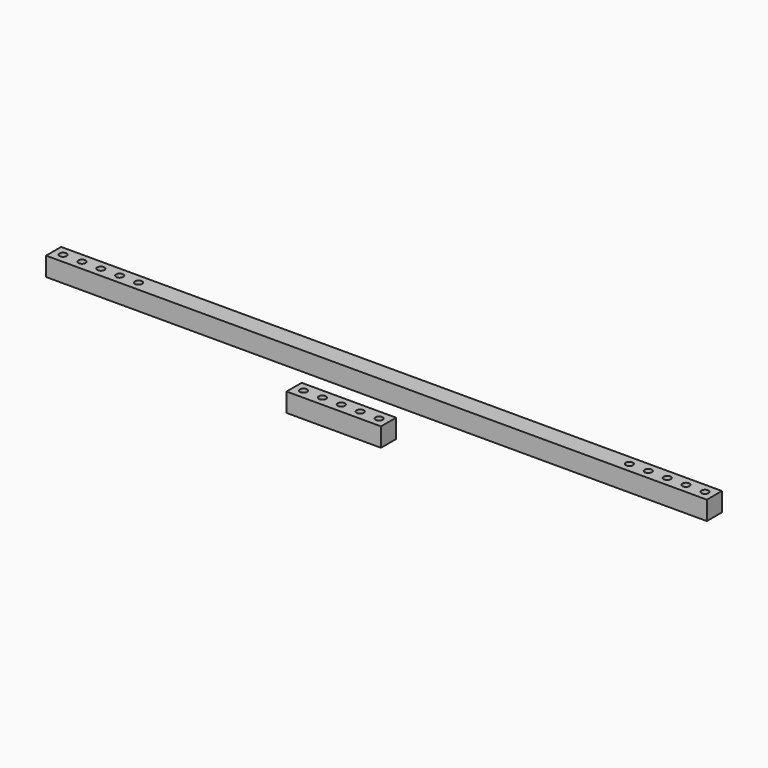
from build123d import *

# Parameters (mm, degrees)
F0_W     = 25
F0_H     = 5
F0_R     = 0.95
F0_W_2   = 175
F1_DEPTH = 5


with BuildPart() as f1:
    # F0 (on Top) → F1 (new body)
    with BuildSketch(Plane.XY):
        with Locations((1.717769, -8.260114)):
            Rectangle(F0_W, F0_H)
        with Locations((-8.282231, -8.260114)):
            Circle(F0_R, mode=Mode.SUBTRACT)
        with Locations((-3.282231, -8.260114)):
            Circle(F0_R, mode=Mode.SUBTRACT)
        with Locations((1.717769, -8.260114)):
            Circle(F0_R, mode=Mode.SUBTRACT)
        with Locations((6.717769, -8.260114)):
            Circle(F0_R, mode=Mode.SUBTRACT)
        with Locations((11.717769, -8.260114)):
            Circle(F0_R, mode=Mode.SUBTRACT)
        with Locations((-0.145234, 8.2023)):
            Rectangle(F0_W_2, F0_H)
        with Locations((-85.145234, 8.2023)):
            Circle(F0_R, mode=Mode.SUBTRACT)
        with Locations((-80.145234, 8.2023)):
            Circle(F0_R, mode=Mode.SUBTRACT)
        with Locations((-75.145234, 8.2023)):
            Circle(F0_R, mode=Mode.SUBTRACT)
        with Locations((-70.145234, 8.2023)):
            Circle(F0_R, mode=Mode.SUBTRACT)
        with Locations((-65.145234, 8.2023)):
            Circle(F0_R, mode=Mode.SUBTRACT)
        with Locations((64.854766, 8.2023)):
            Circle(F0_R, mode=Mode.SUBTRACT)
        with Locations((69.854766, 8.2023)):
            Circle(F0_R, mode=Mode.SUBTRACT)
        with Locations((74.854766, 8.2023)):
            Circle(F0_R, mode=Mode.SUBTRACT)
        with Locations((79.854766, 8.2023)):
            Circle(F0_R, mode=Mode.SUBTRACT)
        with Locations((84.854766, 8.2023)):
            Circle(F0_R, mode=Mode.SUBTRACT)
    extrude(amount=F1_DEPTH)


solid = f1.part
